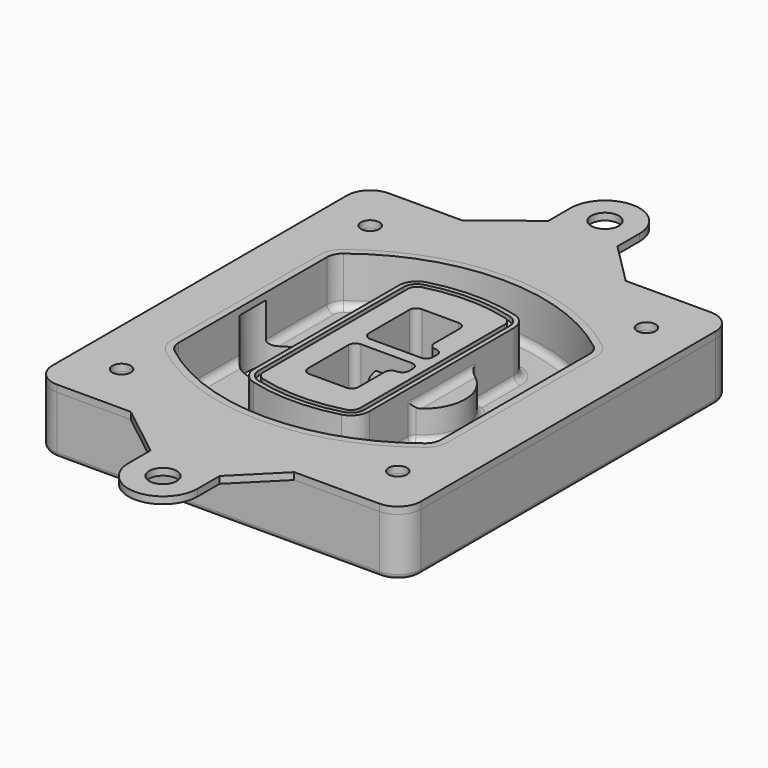
from build123d import *

# Parameters (mm, degrees)
F0_R      = 4
F1_DEPTH  = 25
F2_DEPTH  = 3
F3_DEPTH  = 18
F5_DEPTH  = 21
F6_DEPTH  = 2
F8_DEPTH  = 20
F9_DEPTH  = 16
F10_DEPTH = 25
F7_R      = 6
F7_R_2    = 4
F11_DEPTH = 6
F13_DEPTH = 9
F14_R     = 3
F15_R     = 2
F16_R     = 6
F16_R_2   = 4
F17_DEPTH = 3


with BuildPart() as f1:
    # F0 (on Top) → F1 (new body)
    with BuildSketch(Plane.XY):
        with BuildLine():
            ThreePointArc((-80, -80), (-77.0710678119, -87.0710678119), (-70, -90))
            Line((-70, -90), (70, -90))
            ThreePointArc((70, -90), (77.0710678119, -87.0710678119), (80, -80))
            Line((80, -80), (80, 80))
            ThreePointArc((80, 80), (77.0710678119, 87.0710678119), (70, 90))
            Line((70, 90), (-70, 90))
            ThreePointArc((-70, 90), (-77.0710678119, 87.0710678119), (-80, 80))
            Line((-80, 80), (-80, -80))
        make_face()
        with Locations((-60, -67.5)):
            Circle(F0_R, mode=Mode.SUBTRACT)
        with Locations((60, -67.5)):
            Circle(F0_R, mode=Mode.SUBTRACT)
        with Locations((-60, 67.5)):
            Circle(F0_R, mode=Mode.SUBTRACT)
        with BuildLine():
            ThreePointArc((-64, 40.2934422872), (-62.5820384798, 46.4328484224), (-58.6153846154, 51.3286200352))
            ThreePointArc((-58.6153846154, 51.3286200352), (0, 71.5), (58.6153846154, 51.3286200352))
            ThreePointArc((58.6153846154, 51.3286200352), (62.5820384798, 46.4328484224), (64, 40.2934422872))
            Line((64, 40.2934422872), (64, -40.2934422872))
            ThreePointArc((64, -40.2934422872), (62.5820384798, -46.4328484224), (58.6153846154, -51.3286200352))
            ThreePointArc((58.6153846154, -51.3286200352), (0, -71.5), (-58.6153846154, -51.3286200352))
            ThreePointArc((-58.6153846154, -51.3286200352), (-62.5820384798, -46.4328484224), (-64, -40.2934422872))
            Line((-64, -40.2934422872), (-64, 40.2934422872))
        make_face(mode=Mode.SUBTRACT)
        with Locations((60, 67.5)):
            Circle(F0_R, mode=Mode.SUBTRACT)
        with BuildLine():
            ThreePointArc((58.6153846154, 51.3286200352), (0, 71.5), (-58.6153846154, 51.3286200352))
            ThreePointArc((-58.6153846154, 51.3286200352), (-62.5820384798, 46.4328484224), (-64, 40.2934422872))
            Line((-64, 40.2934422872), (-64, -40.2934422872))
            ThreePointArc((-64, -40.2934422872), (-62.5820384798, -46.4328484224), (-58.6153846154, -51.3286200352))
            ThreePointArc((-58.6153846154, -51.3286200352), (0, -71.5), (58.6153846154, -51.3286200352))
            ThreePointArc((58.6153846154, -51.3286200352), (62.5820384798, -46.4328484224), (64, -40.2934422872))
            Line((64, -40.2934422872), (64, 40.2934422872))
            ThreePointArc((64, 40.2934422872), (62.5820384798, 46.4328484224), (58.6153846154, 51.3286200352))
        make_face()
        with BuildLine():
            Line((-60, -40.2934422872), (-60, 40.2934422872))
            ThreePointArc((-60, 40.2934422872), (-58.9871703427, 44.6787323838), (-56.1538461538, 48.1757121072))
            ThreePointArc((-56.1538461538, 48.1757121072), (0, 67.5), (56.1538461538, 48.1757121072))
            ThreePointArc((56.1538461538, 48.1757121072), (58.9871703427, 44.6787323838), (60, 40.2934422872))
            Line((60, 40.2934422872), (60, -40.2934422872))
            ThreePointArc((60, -40.2934422872), (58.9871703427, -44.6787323838), (56.1538461538, -48.1757121072))
            ThreePointArc((56.1538461538, -48.1757121072), (0, -67.5), (-56.1538461538, -48.1757121072))
            ThreePointArc((-56.1538461538, -48.1757121072), (-58.9871703427, -44.6787323838), (-60, -40.2934422872))
        make_face(mode=Mode.SUBTRACT)
        with BuildLine():
            ThreePointArc((-56.1538461538, 48.1757121072), (-58.9871703427, 44.6787323838), (-60, 40.2934422872))
            Line((-60, 40.2934422872), (-60, -40.2934422872))
            ThreePointArc((-60, -40.2934422872), (-58.9871703427, -44.6787323838), (-56.1538461538, -48.1757121072))
            ThreePointArc((-56.1538461538, -48.1757121072), (0, -67.5), (56.1538461538, -48.1757121072))
            ThreePointArc((56.1538461538, -48.1757121072), (58.9871703427, -44.6787323838), (60, -40.2934422872))
            Line((60, -40.2934422872), (60, 40.2934422872))
            ThreePointArc((60, 40.2934422872), (58.9871703427, 44.6787323838), (56.1538461538, 48.1757121072))
            ThreePointArc((56.1538461538, 48.1757121072), (0, 67.5), (-56.1538461538, 48.1757121072))
        make_face()
        with BuildLine():
            ThreePointArc((54.3076923077, 45.8110311612), (56.2910192399, 43.3631453548), (57, 40.2934422872))
            Line((57, 40.2934422872), (57, -40.2934422872))
            ThreePointArc((57, -40.2934422872), (56.2910192399, -43.3631453548), (54.3076923077, -45.8110311612))
            ThreePointArc((54.3076923077, -45.8110311612), (0, -64.5), (-54.3076923077, -45.8110311612))
            ThreePointArc((-54.3076923077, -45.8110311612), (-56.2910192399, -43.3631453548), (-57, -40.2934422872))
            Line((-57, -40.2934422872), (-57, 40.2934422872))
            ThreePointArc((-57, 40.2934422872), (-56.2910192399, 43.3631453548), (-54.3076923077, 45.8110311612))
            ThreePointArc((-54.3076923077, 45.8110311612), (0, 64.5), (54.3076923077, 45.8110311612))
        make_face(mode=Mode.SUBTRACT)
        with BuildLine():
            Line((57, -40.2934422872), (57, 40.2934422872))
            ThreePointArc((57, 40.2934422872), (56.2910192399, 43.3631453548), (54.3076923077, 45.8110311612))
            ThreePointArc((54.3076923077, 45.8110311612), (0, 64.5), (-54.3076923077, 45.8110311612))
            ThreePointArc((-54.3076923077, 45.8110311612), (-56.2910192399, 43.3631453548), (-57, 40.2934422872))
            Line((-57, 40.2934422872), (-57, -40.2934422872))
            ThreePointArc((-57, -40.2934422872), (-56.2910192399, -43.3631453548), (-54.3076923077, -45.8110311612))
            ThreePointArc((-54.3076923077, -45.8110311612), (0, -64.5), (54.3076923077, -45.8110311612))
            ThreePointArc((54.3076923077, -45.8110311612), (56.2910192399, -43.3631453548), (57, -40.2934422872))
        make_face()
    extrude(amount=-F1_DEPTH)

    # F0 (on Top) → F2 (join)
    with BuildSketch(Plane.XY):
        with BuildLine():
            ThreePointArc((-56.1538461538, 48.1757121072), (-58.9871703427, 44.6787323838), (-60, 40.2934422872))
            Line((-60, 40.2934422872), (-60, -40.2934422872))
            ThreePointArc((-60, -40.2934422872), (-58.9871703427, -44.6787323838), (-56.1538461538, -48.1757121072))
            ThreePointArc((-56.1538461538, -48.1757121072), (0, -67.5), (56.1538461538, -48.1757121072))
            ThreePointArc((56.1538461538, -48.1757121072), (58.9871703427, -44.6787323838), (60, -40.2934422872))
            Line((60, -40.2934422872), (60, 40.2934422872))
            ThreePointArc((60, 40.2934422872), (58.9871703427, 44.6787323838), (56.1538461538, 48.1757121072))
            ThreePointArc((56.1538461538, 48.1757121072), (0, 67.5), (-56.1538461538, 48.1757121072))
        make_face()
        with BuildLine():
            ThreePointArc((54.3076923077, 45.8110311612), (56.2910192399, 43.3631453548), (57, 40.2934422872))
            Line((57, 40.2934422872), (57, -40.2934422872))
            ThreePointArc((57, -40.2934422872), (56.2910192399, -43.3631453548), (54.3076923077, -45.8110311612))
            ThreePointArc((54.3076923077, -45.8110311612), (0, -64.5), (-54.3076923077, -45.8110311612))
            ThreePointArc((-54.3076923077, -45.8110311612), (-56.2910192399, -43.3631453548), (-57, -40.2934422872))
            Line((-57, -40.2934422872), (-57, 40.2934422872))
            ThreePointArc((-57, 40.2934422872), (-56.2910192399, 43.3631453548), (-54.3076923077, 45.8110311612))
            ThreePointArc((-54.3076923077, 45.8110311612), (0, 64.5), (54.3076923077, 45.8110311612))
        make_face(mode=Mode.SUBTRACT)
    extrude(amount=F2_DEPTH)

    # F0 (on Top) → F3 (cut)
    with BuildSketch(Plane.XY):
        with BuildLine():
            Line((57, -40.2934422872), (57, 40.2934422872))
            ThreePointArc((57, 40.2934422872), (56.2910192399, 43.3631453548), (54.3076923077, 45.8110311612))
            ThreePointArc((54.3076923077, 45.8110311612), (0, 64.5), (-54.3076923077, 45.8110311612))
            ThreePointArc((-54.3076923077, 45.8110311612), (-56.2910192399, 43.3631453548), (-57, 40.2934422872))
            Line((-57, 40.2934422872), (-57, -40.2934422872))
            ThreePointArc((-57, -40.2934422872), (-56.2910192399, -43.3631453548), (-54.3076923077, -45.8110311612))
            ThreePointArc((-54.3076923077, -45.8110311612), (0, -64.5), (54.3076923077, -45.8110311612))
            ThreePointArc((54.3076923077, -45.8110311612), (56.2910192399, -43.3631453548), (57, -40.2934422872))
        make_face()
    extrude(amount=-F3_DEPTH, mode=Mode.SUBTRACT)

    # F4 (on face) → F5 (join, through all)
    with BuildSketch(Plane.XY.offset(3)):
        with BuildLine():
            ThreePointArc((-25, -39.2465276821), (-23.3511545998, -44.1109737193), (-19.0842911877, -46.9702398883))
            ThreePointArc((-19.0842911877, -46.9702398883), (0, -49.5), (19.0842911877, -46.9702398883))
            ThreePointArc((19.0842911877, -46.9702398883), (23.3511545998, -44.1109737193), (25, -39.2465276821))
            Line((25, -39.2465276821), (25, 39.2465276821))
            ThreePointArc((25, 39.2465276821), (23.3511545998, 44.1109737193), (19.0842911877, 46.9702398883))
            ThreePointArc((19.0842911877, 46.9702398883), (0, 49.5), (-19.0842911877, 46.9702398883))
            ThreePointArc((-19.0842911877, 46.9702398883), (-23.3511545998, 44.1109737193), (-25, 39.2465276821))
            Line((-25, 39.2465276821), (-25, -39.2465276821))
        make_face()
        with BuildLine():
            ThreePointArc((18.5632183908, 45.0393118368), (21.7633659499, 42.89486221), (23, 39.2465276821))
            Line((23, 39.2465276821), (23, -39.2465276821))
            ThreePointArc((23, -39.2465276821), (21.7633659499, -42.89486221), (18.5632183908, -45.0393118368))
            ThreePointArc((18.5632183908, -45.0393118368), (0, -47.5), (-18.5632183908, -45.0393118368))
            ThreePointArc((-18.5632183908, -45.0393118368), (-21.7633659499, -42.89486221), (-23, -39.2465276821))
            Line((-23, -39.2465276821), (-23, 39.2465276821))
            ThreePointArc((-23, 39.2465276821), (-21.7633659499, 42.89486221), (-18.5632183908, 45.0393118368))
            ThreePointArc((-18.5632183908, 45.0393118368), (0, 47.5), (18.5632183908, 45.0393118368))
        make_face(mode=Mode.SUBTRACT)
        with BuildLine():
            Line((23, -39.2465276821), (23, 39.2465276821))
            ThreePointArc((23, 39.2465276821), (21.7633659499, 42.89486221), (18.5632183908, 45.0393118368))
            ThreePointArc((18.5632183908, 45.0393118368), (0, 47.5), (-18.5632183908, 45.0393118368))
            ThreePointArc((-18.5632183908, 45.0393118368), (-21.7633659499, 42.89486221), (-23, 39.2465276821))
            Line((-23, 39.2465276821), (-23, -39.2465276821))
            ThreePointArc((-23, -39.2465276821), (-21.7633659499, -42.89486221), (-18.5632183908, -45.0393118368))
            ThreePointArc((-18.5632183908, -45.0393118368), (0, -47.5), (18.5632183908, -45.0393118368))
            ThreePointArc((18.5632183908, -45.0393118368), (21.7633659499, -42.89486221), (23, -39.2465276821))
        make_face()
        with BuildLine():
            ThreePointArc((18.0421455939, 43.1083837852), (20.1755772999, 41.6787507007), (21, 39.2465276821))
            Line((21, 39.2465276821), (21, -39.2465276821))
            ThreePointArc((21, -39.2465276821), (20.1755772999, -41.6787507007), (18.0421455939, -43.1083837852))
            ThreePointArc((18.0421455939, -43.1083837852), (0, -45.5), (-18.0421455939, -43.1083837852))
            ThreePointArc((-18.0421455939, -43.1083837852), (-20.1755772999, -41.6787507007), (-21, -39.2465276821))
            Line((-21, -39.2465276821), (-21, 39.2465276821))
            ThreePointArc((-21, 39.2465276821), (-20.1755772999, 41.6787507007), (-18.0421455939, 43.1083837852))
            ThreePointArc((-18.0421455939, 43.1083837852), (0, 45.5), (18.0421455939, 43.1083837852))
        make_face(mode=Mode.SUBTRACT)
        with BuildLine():
            Line((21, -39.2465276821), (21, 39.2465276821))
            ThreePointArc((21, 39.2465276821), (20.1755772999, 41.6787507007), (18.0421455939, 43.1083837852))
            ThreePointArc((18.0421455939, 43.1083837852), (0, 45.5), (-18.0421455939, 43.1083837852))
            ThreePointArc((-18.0421455939, 43.1083837852), (-20.1755772999, 41.6787507007), (-21, 39.2465276821))
            Line((-21, 39.2465276821), (-21, -39.2465276821))
            ThreePointArc((-21, -39.2465276821), (-20.1755772999, -41.6787507007), (-18.0421455939, -43.1083837852))
            ThreePointArc((-18.0421455939, -43.1083837852), (0, -45.5), (18.0421455939, -43.1083837852))
            ThreePointArc((18.0421455939, -43.1083837852), (20.1755772999, -41.6787507007), (21, -39.2465276821))
        make_face()
        with BuildLine():
            Line((-8, -2.5), (14, -2.5))
            ThreePointArc((14, -2.5), (16.1213203436, -3.3786796564), (17, -5.5))
            Line((17, -5.5), (17, -7.5))
            ThreePointArc((17, -7.5), (16.1213203436, -9.6213203436), (14, -10.5))
            ThreePointArc((14, -10.5), (11.8786796564, -11.3786796564), (11, -13.5))
            Line((11, -13.5), (11, -27.5))
            ThreePointArc((11, -27.5), (10.1213203436, -29.6213203436), (8, -30.5))
            Line((8, -30.5), (-8, -30.5))
            ThreePointArc((-8, -30.5), (-10.1213203436, -29.6213203436), (-11, -27.5))
            Line((-11, -27.5), (-11, -5.5))
            ThreePointArc((-11, -5.5), (-10.1213203436, -3.3786796564), (-8, -2.5))
        make_face(mode=Mode.SUBTRACT)
        with BuildLine():
            ThreePointArc((-8, 2.5), (-10.1213203436, 3.3786796564), (-11, 5.5))
            Line((-11, 5.5), (-11, 27.5))
            ThreePointArc((-11, 27.5), (-10.1213203436, 29.6213203436), (-8, 30.5))
            Line((-8, 30.5), (8, 30.5))
            ThreePointArc((8, 30.5), (10.1213203436, 29.6213203436), (11, 27.5))
            Line((11, 27.5), (11, 13.5))
            ThreePointArc((11, 13.5), (11.8786796564, 11.3786796564), (14, 10.5))
            ThreePointArc((14, 10.5), (16.1213203436, 9.6213203436), (17, 7.5))
            Line((17, 7.5), (17, 5.5))
            ThreePointArc((17, 5.5), (16.1213203436, 3.3786796564), (14, 2.5))
            Line((14, 2.5), (-8, 2.5))
        make_face(mode=Mode.SUBTRACT)
    extrude(amount=-F5_DEPTH)

    # F4 (on face) → F6 (cut)
    with BuildSketch(Plane.XY.offset(3)):
        with BuildLine():
            Line((23, -39.2465276821), (23, 39.2465276821))
            ThreePointArc((23, 39.2465276821), (21.7633659499, 42.89486221), (18.5632183908, 45.0393118368))
            ThreePointArc((18.5632183908, 45.0393118368), (0, 47.5), (-18.5632183908, 45.0393118368))
            ThreePointArc((-18.5632183908, 45.0393118368), (-21.7633659499, 42.89486221), (-23, 39.2465276821))
            Line((-23, 39.2465276821), (-23, -39.2465276821))
            ThreePointArc((-23, -39.2465276821), (-21.7633659499, -42.89486221), (-18.5632183908, -45.0393118368))
            ThreePointArc((-18.5632183908, -45.0393118368), (0, -47.5), (18.5632183908, -45.0393118368))
            ThreePointArc((18.5632183908, -45.0393118368), (21.7633659499, -42.89486221), (23, -39.2465276821))
        make_face()
        with BuildLine():
            ThreePointArc((18.0421455939, 43.1083837852), (20.1755772999, 41.6787507007), (21, 39.2465276821))
            Line((21, 39.2465276821), (21, -39.2465276821))
            ThreePointArc((21, -39.2465276821), (20.1755772999, -41.6787507007), (18.0421455939, -43.1083837852))
            ThreePointArc((18.0421455939, -43.1083837852), (0, -45.5), (-18.0421455939, -43.1083837852))
            ThreePointArc((-18.0421455939, -43.1083837852), (-20.1755772999, -41.6787507007), (-21, -39.2465276821))
            Line((-21, -39.2465276821), (-21, 39.2465276821))
            ThreePointArc((-21, 39.2465276821), (-20.1755772999, 41.6787507007), (-18.0421455939, 43.1083837852))
            ThreePointArc((-18.0421455939, 43.1083837852), (0, 45.5), (18.0421455939, 43.1083837852))
        make_face(mode=Mode.SUBTRACT)
    extrude(amount=-F6_DEPTH, mode=Mode.SUBTRACT)

    # F7 (on face) → F8 (join)
    with BuildSketch(Plane(origin=(0, 0, -25), x_dir=(1, 0, 0), z_dir=(0, 0, -1))):
        with BuildLine():
            ThreePointArc((3.28842436, 0), (16.7567035675, 13.4682792075), (30.224982775, 0))
            Line((30.224982775, 0), (35.224982775, 0))
            ThreePointArc((35.224982775, 0), (16.7567035675, 18.4682792075), (-1.71157564, 0))
            Line((-1.71157564, 0), (3.28842436, 0))
        make_face()
        with BuildLine():
            Line((3.28842436, 0), (30.224982775, 0))
            ThreePointArc((30.224982775, 0), (16.7567035675, 13.4682792075), (3.28842436, 0))
        make_face()
        with BuildLine():
            ThreePointArc((3.28842436, 0), (16.7567035675, -13.4682792075), (30.224982775, 0))
            Line((30.224982775, 0), (3.28842436, 0))
        make_face()
        with BuildLine():
            Line((35.224982775, 0), (30.224982775, 0))
            ThreePointArc((30.224982775, 0), (16.7567035675, -13.4682792075), (3.28842436, 0))
            Line((3.28842436, 0), (-1.71157564, 0))
            ThreePointArc((-1.71157564, 0), (16.7567035675, -18.4682792075), (35.224982775, 0))
        make_face()
    extrude(amount=-F8_DEPTH)

    # F7 (on face) → F9 (cut)
    with BuildSketch(Plane(origin=(0, 0, -25), x_dir=(1, 0, 0), z_dir=(0, 0, -1))):
        with BuildLine():
            Line((3.28842436, 0), (30.224982775, 0))
            ThreePointArc((30.224982775, 0), (16.7567035675, 13.4682792075), (3.28842436, 0))
        make_face()
        with BuildLine():
            ThreePointArc((3.28842436, 0), (16.7567035675, -13.4682792075), (30.224982775, 0))
            Line((30.224982775, 0), (3.28842436, 0))
        make_face()
    extrude(amount=-F9_DEPTH, mode=Mode.SUBTRACT)

    # F7 (on face) → F10 (cut)
    with BuildSketch(Plane(origin=(0, 0, -25), x_dir=(1, 0, 0), z_dir=(0, 0, -1))):
        with BuildLine():
            Line((-59.0318229325, 0), (-32.0952645175, 0))
            ThreePointArc((-32.0952645175, 0), (-45.563543725, 13.4682792075), (-59.0318229325, 0))
        make_face()
        with BuildLine():
            ThreePointArc((-59.0318229325, 0), (-45.563543725, -13.4682792075), (-32.0952645175, 0))
            Line((-32.0952645175, 0), (-59.0318229325, 0))
        make_face()
    extrude(amount=-F10_DEPTH, mode=Mode.SUBTRACT)

    # F7 (on face) → F11 (cut)
    with BuildSketch(Plane(origin=(0, 0, -25), x_dir=(1, 0, 0), z_dir=(0, 0, -1))):
        with Locations((60, -67.5)):
            Circle(F7_R)
        with Locations((60, -67.5)):
            Circle(F7_R_2, mode=Mode.SUBTRACT)
        with Locations((60, -67.5)):
            Circle(F7_R)
        with Locations((60, -67.5)):
            Circle(F7_R_2, mode=Mode.SUBTRACT)
        with Locations((-60, -67.5)):
            Circle(F7_R)
        with Locations((-60, -67.5)):
            Circle(F7_R_2, mode=Mode.SUBTRACT)
        with Locations((-60, -67.5)):
            Circle(F7_R)
        with Locations((-60, -67.5)):
            Circle(F7_R_2, mode=Mode.SUBTRACT)
        with Locations((-60, 67.5)):
            Circle(F7_R)
        with Locations((-60, 67.5)):
            Circle(F7_R_2, mode=Mode.SUBTRACT)
        with Locations((-60, 67.5)):
            Circle(F7_R)
        with Locations((-60, 67.5)):
            Circle(F7_R_2, mode=Mode.SUBTRACT)
        with Locations((60, 67.5)):
            Circle(F7_R)
        with Locations((60, 67.5)):
            Circle(F7_R_2, mode=Mode.SUBTRACT)
        with Locations((60, 67.5)):
            Circle(F7_R)
        with Locations((60, 67.5)):
            Circle(F7_R_2, mode=Mode.SUBTRACT)
    extrude(amount=-F11_DEPTH, mode=Mode.SUBTRACT)

    # F12 (on face) → F13 (cut, through all)
    with BuildSketch(Plane(origin=(0, 0, -9), x_dir=(1, 0, 0), z_dir=(0, 0, -1))):
        with BuildLine():
            Line((11, 13.5), (11, 17.5481537753))
            ThreePointArc((11, 17.5481537753), (2.5696536419, 11.8239143813), (-1.5415842455, 2.5))
            Line((-1.5415842455, 2.5), (3.5224848595, 2.5))
            ThreePointArc((3.5224848595, 2.5), (6.1857188154, 8.3455872281), (11.2536447004, 12.2927168648))
            ThreePointArc((11.2536447004, 12.2927168648), (11.0640958889, 12.8831798879), (11, 13.5))
        make_face()
        with BuildLine():
            ThreePointArc((11.2536447004, -12.2927168648), (6.1857188154, -8.3455872281), (3.5224848595, -2.5))
            Line((3.5224848595, -2.5), (-1.5415842455, -2.5))
            ThreePointArc((-1.5415842455, -2.5), (2.5696536419, -11.8239143813), (11, -17.5481537753))
            Line((11, -17.5481537753), (11, -13.5))
            ThreePointArc((11, -13.5), (11.0640958889, -12.8831798879), (11.2536447004, -12.2927168648))
        make_face()
        with BuildLine():
            ThreePointArc((11.2536447004, 12.2927168648), (6.1857188154, 8.3455872281), (3.5224848595, 2.5))
            Line((3.5224848595, 2.5), (14, 2.5))
            ThreePointArc((14, 2.5), (16.1213203436, 3.3786796564), (17, 5.5))
            Line((17, 5.5), (17, 7.5))
            ThreePointArc((17, 7.5), (16.1213203436, 9.6213203436), (14, 10.5))
            ThreePointArc((14, 10.5), (12.3601599782, 10.9878446101), (11.2536447004, 12.2927168648))
        make_face()
        with BuildLine():
            Line((14, -2.5), (3.5224848595, -2.5))
            ThreePointArc((3.5224848595, -2.5), (6.1857188154, -8.3455872281), (11.2536447004, -12.2927168648))
            ThreePointArc((11.2536447004, -12.2927168648), (12.3601599782, -10.9878446101), (14, -10.5))
            ThreePointArc((14, -10.5), (16.1213203436, -9.6213203436), (17, -7.5))
            Line((17, -7.5), (17, -5.5))
            ThreePointArc((17, -5.5), (16.1213203436, -3.3786796564), (14, -2.5))
        make_face()
    extrude(amount=F13_DEPTH, mode=Mode.SUBTRACT)

    # F14
    f14_edges = [f1.edges().sort_by_distance(p)[0] for p in [
        (-57, -23.703476, -18),
        (-57, 23.703476, -18),
        (25, 0, -5),
        (25, 16.526506, -11.5),
        (25, -16.526506, -11.5),
        (25, -27.886517, -18),
        (35.224983, 0, -18),
    ]]
    fillet(f14_edges, radius=F14_R)

    # F15
    f15_edges = [f1.edges().sort_by_distance(p)[0] for p in [
        (0, -90, -25),
    ]]
    fillet(f15_edges, radius=F15_R)


with BuildPart() as f17:
    # F16 (on face) → F17 (new body, through all)
    with BuildSketch(Plane.XY):
        with BuildLine():
            Line((15, -108), (33, -90))
            Line((33, -90), (-38, -90))
            Line((-38, -90), (-15, -108))
            Line((-15, -108), (-15, -120))
            ThreePointArc((-15, -120), (0, -135), (15, -120))
            Line((15, -120), (15, -108))
        make_face()
        with Locations((0, -120)):
            Circle(F16_R, mode=Mode.SUBTRACT)
        with BuildLine():
            Line((70, 90), (33, 90))
            Line((33, 90), (-38, 90))
            Line((-38, 90), (-70, 90))
            ThreePointArc((-70, 90), (-77.0710678119, 87.0710678119), (-80, 80))
            Line((-80, 80), (-80, -80))
            ThreePointArc((-80, -80), (-77.0710678119, -87.0710678119), (-70, -90))
            Line((-70, -90), (-38, -90))
            Line((-38, -90), (33, -90))
            Line((33, -90), (70, -90))
            ThreePointArc((70, -90), (77.0710678119, -87.0710678119), (80, -80))
            Line((80, -80), (80, 80))
            ThreePointArc((80, 80), (77.0710678119, 87.0710678119), (70, 90))
        make_face()
        with Locations((-60, -67.5)):
            Circle(F16_R_2, mode=Mode.SUBTRACT)
        with Locations((60, -67.5)):
            Circle(F16_R_2, mode=Mode.SUBTRACT)
        with Locations((-60, 67.5)):
            Circle(F16_R_2, mode=Mode.SUBTRACT)
        with BuildLine():
            ThreePointArc((-60, 40.2934422872), (-58.9871703427, 44.6787323838), (-56.1538461538, 48.1757121072))
            ThreePointArc((-56.1538461538, 48.1757121072), (0, 67.5), (56.1538461538, 48.1757121072))
            ThreePointArc((56.1538461538, 48.1757121072), (58.9871703427, 44.6787323838), (60, 40.2934422872))
            Line((60, 40.2934422872), (60, -40.2934422872))
            ThreePointArc((60, -40.2934422872), (58.9871703427, -44.6787323838), (56.1538461538, -48.1757121072))
            ThreePointArc((56.1538461538, -48.1757121072), (0, -67.5), (-56.1538461538, -48.1757121072))
            ThreePointArc((-56.1538461538, -48.1757121072), (-58.9871703427, -44.6787323838), (-60, -40.2934422872))
            Line((-60, -40.2934422872), (-60, 40.2934422872))
        make_face(mode=Mode.SUBTRACT)
        with Locations((60, 67.5)):
            Circle(F16_R_2, mode=Mode.SUBTRACT)
        with BuildLine():
            Line((15, 108), (15, 120))
            ThreePointArc((15, 120), (0, 135), (-15, 120))
            Line((-15, 120), (-15, 108))
            Line((-15, 108), (-38, 90))
            Line((-38, 90), (33, 90))
            Line((33, 90), (15, 108))
        make_face()
        with Locations((0, 120)):
            Circle(F16_R, mode=Mode.SUBTRACT)
    extrude(amount=F17_DEPTH)


solid = Compound([f1.part, f17.part])
